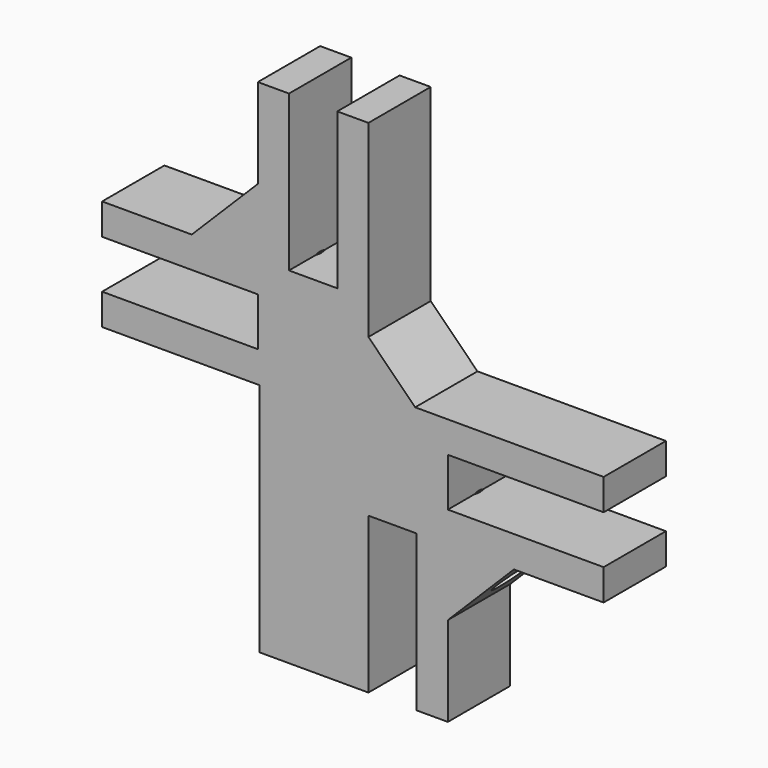
from build123d import *

# Parameters (mm, degrees)
PAD004_DEPTH   = 5
SKETCH009_R    = 1.325
HOLE004_DEPTH  = 34.3965410847
SKETCH010_R    = 1.325
HOLE005_DEPTH  = 12
HOLE005_TIPS_R = 1.325


with BuildPart() as part:
    # Sketch008 → Pad004 (new body)
    with BuildSketch(Plane.XZ.offset(-2.5)):
        Polygon((49.95, -40.139016), (51.95, -40.139016), (51.95, -50.139016), (55.05, -50.139016), (55.05, -40.139016), (57.05, -40.139016), (57.05, -52.239016), (60.05, -55.239016), (72.15, -55.239016), (72.15, -57.239016), (62.15, -57.239016), (62.15, -60.339016), (72.15, -60.339016), (72.15, -62.339016), (66.3926406871, -62.339016), (62.15, -66.5816566871), (62.15, -72.339016), (60.15, -72.339016), (60.15, -62.339016), (57.05, -62.339016), (57.05, -72.339016), (50.05, -72.339016), (50.05, -57.239016), (39.95, -57.239016), (39.95, -55.239016), (49.95, -55.239016), (49.95, -52.139016), (39.95, -52.139016), (39.95, -50.139016), (45.7073593129, -50.139016), (49.95, -45.8963753129), align=None)
    extrude(amount=PAD004_DEPTH)

    # Sketch009 (on Face7 of Pad004) → Hole004 (cut, through all)
    with BuildSketch(Plane(origin=(64.3658283436, 0, -64.3658283436), x_dir=(0.7071067812, 0, 0.7071067812), z_dir=(0.7071067812, 0, -0.7071067812))):
        Circle(SKETCH009_R)
    extrude(amount=-HOLE004_DEPTH, mode=Mode.SUBTRACT)

    # Sketch010 (on Face17 of Hole004) → Hole005 (cut)
    with BuildSketch(Plane(origin=(0, 0, -72.339016), x_dir=(1, 0, 0), z_dir=(0, 0, -1))):
        with Locations((53.5, 0)):
            Circle(SKETCH010_R)
    extrude(amount=-HOLE005_DEPTH, mode=Mode.SUBTRACT)

    # Hole005 tips → Hole005 tip 1 section 0
    with BuildSketch(Plane(origin=(0, 0, -60.339016), x_dir=(1, 0, 0), z_dir=(0, 0, -1)), mode=Mode.PRIVATE) as hole005_tip_1_s0:
        with Locations((53.5, 0)):
            Circle(HOLE005_TIPS_R)
    loft([hole005_tip_1_s0.sketch, Vertex(53.5, 0, -59.5428756798)], mode=Mode.SUBTRACT)


solid = part.part
